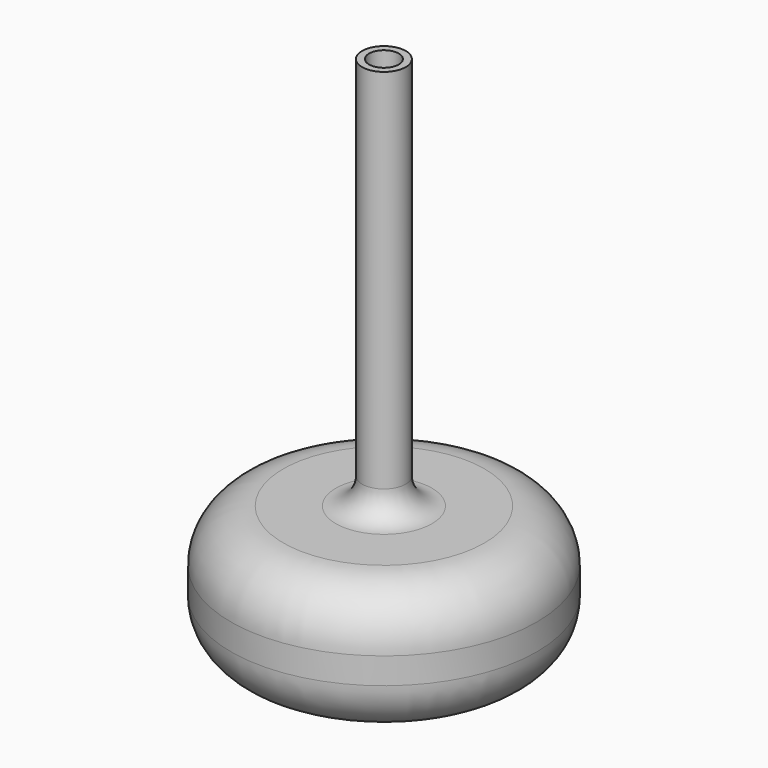
from build123d import *

# Parameters (mm, degrees)
F0_R     = 17.5
F0_R_2   = 2.5
F1_DEPTH = 15
F2_R     = 6
F0_R_3   = 1.7
F3_DEPTH = 60
F4_R     = 3


with BuildPart() as f1:
    # F0 (on Top) → F1 (new body)
    with BuildSketch(Plane.XY):
        Circle(F0_R)
        Circle(F0_R_2, mode=Mode.SUBTRACT)
    extrude(amount=F1_DEPTH)

    # F2
    f2_edges = [f1.edges().sort_by_distance(p)[0] for p in [
        (-17.5, 0, 15),
        (-17.5, 0, 0),
    ]]
    fillet(f2_edges, radius=F2_R)

    # F0 (on Top) → F3 (join)
    with BuildSketch(Plane.XY):
        Circle(F0_R_2)
        Circle(F0_R_3, mode=Mode.SUBTRACT)
    extrude(amount=F3_DEPTH)

    # F4
    f4_edges = [f1.edges().sort_by_distance(p)[0] for p in [
        (-1.7, 0, 0),
        (-2.5, 0, 15),
    ]]
    fillet(f4_edges, radius=F4_R)


solid = f1.part
